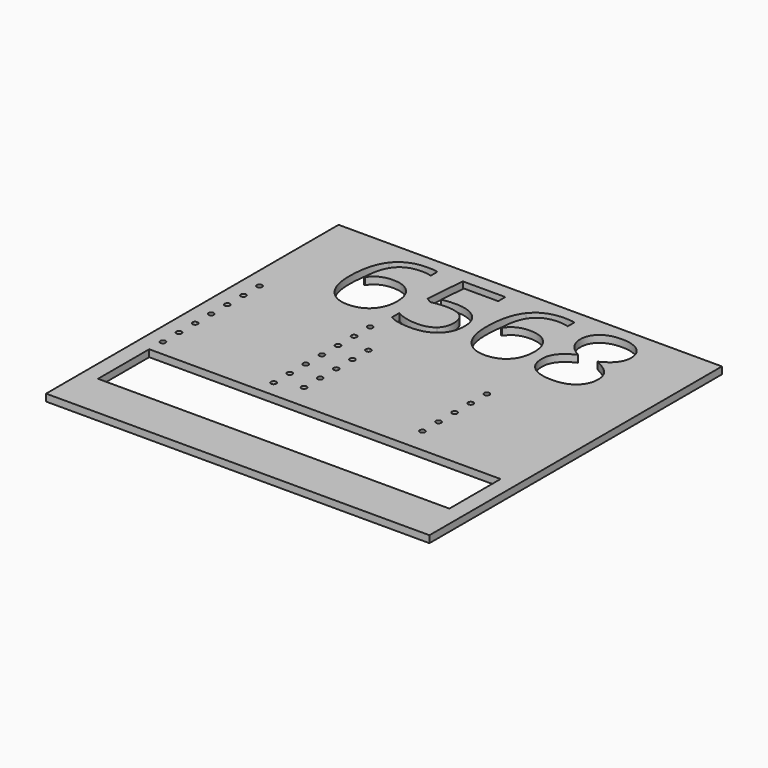
from build123d import *

# Parameters (mm, degrees)
F0_W     = 304.8
F0_H     = 290.6542338112
F0_R     = 2.0981137291
F0_R_2   = 2.0989264552
F0_R_3   = 2.0976936779
F0_R_4   = 2.1
F0_W_2   = 279.3690043101
F0_H_2   = 50.8995426
F0_R_5   = 2.0997492789
F0_R_6   = 2.1030218178
F0_R_7   = 2.1007431661
F0_R_8   = 2.1100198715
F1_DEPTH = 5.588


with BuildPart() as f1:
    # F0 (on Top) → F1 (new body)
    with BuildSketch(Plane.XY):
        with Locations((1.6117691994, 58.7348085056)):
            Rectangle(F0_W, F0_H)
        with Locations((-137.6363656092, 13.0837442843)):
            Circle(F0_R, mode=Mode.SUBTRACT)
        with Locations((-137.6372131602, 29.0818907095)):
            Circle(F0_R_2, mode=Mode.SUBTRACT)
        with Locations((-137.6291652849, 45.0860855355)):
            Circle(F0_R_3, mode=Mode.SUBTRACT)
        with Locations((-49.6327695587, 13.0835205343)):
            Circle(F0_R_4, mode=Mode.SUBTRACT)
        with Locations((-30.9468981291, 19.9726814427)):
            Circle(F0_R_4, mode=Mode.SUBTRACT)
        with Locations((-49.6327695587, 29.0835205343)):
            Circle(F0_R_4, mode=Mode.SUBTRACT)
        with Locations((-49.6327695587, 45.0835205343)):
            Circle(F0_R_4, mode=Mode.SUBTRACT)
        with Locations((-30.9481165686, 35.9726813963)):
            Circle(F0_R_4, mode=Mode.SUBTRACT)
        with Locations((-30.9493350082, 51.97268135)):
            Circle(F0_R_4, mode=Mode.SUBTRACT)
        with Locations((1.6117730443, -25.4497713)):
            Rectangle(F0_W_2, F0_H_2, mode=Mode.SUBTRACT)
        with Locations((63.1926475089, 19.9726814427)):
            Circle(F0_R_4, mode=Mode.SUBTRACT)
        with Locations((63.1914290694, 35.9726813963)):
            Circle(F0_R_4, mode=Mode.SUBTRACT)
        with Locations((63.1902106298, 51.97268135)):
            Circle(F0_R_4, mode=Mode.SUBTRACT)
        with Locations((-137.6294695335, 61.0809336582)):
            Circle(F0_R_5, mode=Mode.SUBTRACT)
        with Locations((-137.6412135418, 77.0719800519)):
            Circle(F0_R_6, mode=Mode.SUBTRACT)
        with Locations((-137.6284801063, 93.0868421709)):
            Circle(F0_R_7, mode=Mode.SUBTRACT)
        with Locations((-137.6289433874, 109.1104278224)):
            Circle(F0_R_8, mode=Mode.SUBTRACT)
        with Locations((-49.6327695587, 61.0835205343)):
            Circle(F0_R_4, mode=Mode.SUBTRACT)
        with Locations((-49.6327695587, 77.0840155506)):
            Circle(F0_R_4, mode=Mode.SUBTRACT)
        with Locations((-49.6327695587, 93.0840155506)):
            Circle(F0_R_4, mode=Mode.SUBTRACT)
        with Locations((-30.9505534477, 67.9726813036)):
            Circle(F0_R_4, mode=Mode.SUBTRACT)
        with Locations((-30.9517718873, 83.9726812572)):
            Circle(F0_R_4, mode=Mode.SUBTRACT)
        with Locations((-49.6327695587, 109.0840155506)):
            Circle(F0_R_4, mode=Mode.SUBTRACT)
        with BuildLine():
            add(Edge.make_bspline(
                [(-96.2710947967, 131.8972389054), (-102.4549033904, 139.8297779679), (-102.4549033904, 153.9684498429)],
                knots=[0, 0, 0, 1, 1, 1], degree=2))
            add(Edge.make_bspline(
                [(-102.4549033904, 153.9684498429), (-102.4549033904, 174.0155982804), (-94.6637510467, 183.9424342179)],
                knots=[0, 0, 0, 1, 1, 1], degree=2))
            add(Edge.make_bspline(
                [(-94.6637510467, 183.9424342179), (-86.8725987029, 193.8692701554), (-71.6177158904, 193.8692701554)],
                knots=[0, 0, 0, 1, 1, 1], degree=2))
            add(Edge.make_bspline(
                [(-71.6177158904, 193.8692701554), (-66.3640830779, 193.8692701554), (-63.3428721404, 192.9911842179)],
                knots=[0, 0, 0, 1, 1, 1], degree=2))
            Line((-63.3428721404, 192.9911842179), (-63.3428721404, 186.3385670304))
            add(Edge.make_bspline(
                [(-63.3428721404, 186.3385670304), (-66.9296299529, 187.4994264054), (-71.5284190154, 187.4994264054)],
                knots=[0, 0, 0, 1, 1, 1], degree=2))
            add(Edge.make_bspline(
                [(-71.5284190154, 187.4994264054), (-82.4672862029, 187.4994264054), (-88.2343760467, 180.6905396867)],
                knots=[0, 0, 0, 1, 1, 1], degree=2))
            add(Edge.make_bspline(
                [(-88.2343760467, 180.6905396867), (-94.0014658904, 173.8816529679), (-94.5521299529, 159.2667310929)],
                knots=[0, 0, 0, 1, 1, 1], degree=2))
            Line((-94.5521299529, 159.2667310929), (-94.0014658904, 159.2667310929))
            add(Edge.make_bspline(
                [(-94.0014658904, 159.2667310929), (-88.8817783904, 167.2736842179), (-77.8089658904, 167.2736842179)],
                knots=[0, 0, 0, 1, 1, 1], degree=2))
            add(Edge.make_bspline(
                [(-77.8089658904, 167.2736842179), (-68.6411533904, 167.2736842179), (-63.3651963592, 161.7372779679)],
                knots=[0, 0, 0, 1, 1, 1], degree=2))
            add(Edge.make_bspline(
                [(-63.3651963592, 161.7372779679), (-58.0892393279, 156.2008717179), (-58.0892393279, 146.7205201554)],
                knots=[0, 0, 0, 1, 1, 1], degree=2))
            add(Edge.make_bspline(
                [(-58.0892393279, 146.7205201554), (-58.0892393279, 136.1090748429), (-63.8786533904, 130.0368873429)],
                knots=[0, 0, 0, 1, 1, 1], degree=2))
            add(Edge.make_bspline(
                [(-63.8786533904, 130.0368873429), (-69.6680674529, 123.9646998429), (-79.5353721404, 123.9646998429)],
                knots=[0, 0, 0, 1, 1, 1], degree=2))
            add(Edge.make_bspline(
                [(-79.5353721404, 123.9646998429), (-90.0872862029, 123.9646998429), (-96.2710947967, 131.8972389054)],
                knots=[0, 0, 0, 1, 1, 1], degree=2))
        make_face(mode=Mode.SUBTRACT)
        with BuildLine():
            add(Edge.make_bspline(
                [(-38.1909190154, 165.3686842179), (-32.8479893279, 166.4402467179), (-27.5348252654, 166.4402467179)],
                knots=[0, 0, 0, 1, 1, 1], degree=2))
            add(Edge.make_bspline(
                [(-27.5348252654, 166.4402467179), (-16.7894346404, 166.4402467179), (-10.6279502654, 161.1121998429)],
                knots=[0, 0, 0, 1, 1, 1], degree=2))
            add(Edge.make_bspline(
                [(-10.6279502654, 161.1121998429), (-4.4664658904, 155.7841529679), (-4.4664658904, 146.5270435929)],
                knots=[0, 0, 0, 1, 1, 1], degree=2))
            add(Edge.make_bspline(
                [(-4.4664658904, 146.5270435929), (-4.4664658904, 135.9751295304), (-11.1860557342, 129.9699146867)],
                knots=[0, 0, 0, 1, 1, 1], degree=2))
            add(Edge.make_bspline(
                [(-11.1860557342, 129.9699146867), (-17.9056455779, 123.9646998429), (-29.7225987029, 123.9646998429)],
                knots=[0, 0, 0, 1, 1, 1], degree=2))
            add(Edge.make_bspline(
                [(-29.7225987029, 123.9646998429), (-41.2121299529, 123.9646998429), (-47.2545518279, 127.6407545304)],
                knots=[0, 0, 0, 1, 1, 1], degree=2))
            Line((-47.2545518279, 127.6407545304), (-47.2545518279, 135.0821607804))
            add(Edge.make_bspline(
                [(-47.2545518279, 135.0821607804), (-44.0100987029, 132.9985670304), (-39.1731846404, 131.8079420304)],
                knots=[0, 0, 0, 1, 1, 1], degree=2))
            add(Edge.make_bspline(
                [(-39.1731846404, 131.8079420304), (-34.3362705779, 130.6173170304), (-29.6333018279, 130.6173170304)],
                knots=[0, 0, 0, 1, 1, 1], degree=2))
            add(Edge.make_bspline(
                [(-29.6333018279, 130.6173170304), (-21.4477549529, 130.6173170304), (-16.9159385467, 134.4794068742)],
                knots=[0, 0, 0, 1, 1, 1], degree=2))
            add(Edge.make_bspline(
                [(-16.9159385467, 134.4794068742), (-12.3841221404, 138.3414967179), (-12.3841221404, 145.6489576554)],
                knots=[0, 0, 0, 1, 1, 1], degree=2))
            add(Edge.make_bspline(
                [(-12.3841221404, 145.6489576554), (-12.3841221404, 159.8769264054), (-29.8118955779, 159.8769264054)],
                knots=[0, 0, 0, 1, 1, 1], degree=2))
            add(Edge.make_bspline(
                [(-29.8118955779, 159.8769264054), (-34.2320908904, 159.8769264054), (-41.6288487029, 158.5225904679)],
                knots=[0, 0, 0, 1, 1, 1], degree=2))
            Line((-41.6288487029, 158.5225904679), (-45.6323252654, 161.0824342179))
            Line((-45.6323252654, 161.0824342179), (-43.0724815154, 192.9018873429))
            Line((-43.0724815154, 192.9018873429), (-9.2587315154, 192.9018873429))
            Line((-9.2587315154, 192.9018873429), (-9.2587315154, 185.7879029679))
            Line((-9.2587315154, 185.7879029679), (-36.4645127654, 185.7879029679))
            Line((-36.4645127654, 185.7879029679), (-38.1909190154, 165.3686842179))
        make_face(mode=Mode.SUBTRACT)
        with Locations((63.1889921903, 67.9726813036)):
            Circle(F0_R_4, mode=Mode.SUBTRACT)
        with Locations((63.1877737507, 83.9726812572)):
            Circle(F0_R_4, mode=Mode.SUBTRACT)
        with BuildLine():
            add(Edge.make_bspline(
                [(12.6413270783, 131.8972389054), (6.4575184846, 139.8297779679), (6.4575184846, 153.9684498429)],
                knots=[0, 0, 0, 1, 1, 1], degree=2))
            add(Edge.make_bspline(
                [(6.4575184846, 153.9684498429), (6.4575184846, 174.0155982804), (14.2486708283, 183.9424342179)],
                knots=[0, 0, 0, 1, 1, 1], degree=2))
            add(Edge.make_bspline(
                [(14.2486708283, 183.9424342179), (22.0398231721, 193.8692701554), (37.2947059846, 193.8692701554)],
                knots=[0, 0, 0, 1, 1, 1], degree=2))
            add(Edge.make_bspline(
                [(37.2947059846, 193.8692701554), (42.5483387971, 193.8692701554), (45.5695497346, 192.9911842179)],
                knots=[0, 0, 0, 1, 1, 1], degree=2))
            Line((45.5695497346, 192.9911842179), (45.5695497346, 186.3385670304))
            add(Edge.make_bspline(
                [(45.5695497346, 186.3385670304), (41.9827919221, 187.4994264054), (37.3840028596, 187.4994264054)],
                knots=[0, 0, 0, 1, 1, 1], degree=2))
            add(Edge.make_bspline(
                [(37.3840028596, 187.4994264054), (26.4451356721, 187.4994264054), (20.6780458283, 180.6905396867)],
                knots=[0, 0, 0, 1, 1, 1], degree=2))
            add(Edge.make_bspline(
                [(20.6780458283, 180.6905396867), (14.9109559846, 173.8816529679), (14.3602919221, 159.2667310929)],
                knots=[0, 0, 0, 1, 1, 1], degree=2))
            Line((14.3602919221, 159.2667310929), (14.9109559846, 159.2667310929))
            add(Edge.make_bspline(
                [(14.9109559846, 159.2667310929), (20.0306434846, 167.2736842179), (31.1034559846, 167.2736842179)],
                knots=[0, 0, 0, 1, 1, 1], degree=2))
            add(Edge.make_bspline(
                [(31.1034559846, 167.2736842179), (40.2712684846, 167.2736842179), (45.5472255158, 161.7372779679)],
                knots=[0, 0, 0, 1, 1, 1], degree=2))
            add(Edge.make_bspline(
                [(45.5472255158, 161.7372779679), (50.8231825471, 156.2008717179), (50.8231825471, 146.7205201554)],
                knots=[0, 0, 0, 1, 1, 1], degree=2))
            add(Edge.make_bspline(
                [(50.8231825471, 146.7205201554), (50.8231825471, 136.1090748429), (45.0337684846, 130.0368873429)],
                knots=[0, 0, 0, 1, 1, 1], degree=2))
            add(Edge.make_bspline(
                [(45.0337684846, 130.0368873429), (39.2443544221, 123.9646998429), (29.3770497346, 123.9646998429)],
                knots=[0, 0, 0, 1, 1, 1], degree=2))
            add(Edge.make_bspline(
                [(29.3770497346, 123.9646998429), (18.8251356721, 123.9646998429), (12.6413270783, 131.8972389054)],
                knots=[0, 0, 0, 1, 1, 1], degree=2))
        make_face(mode=Mode.SUBTRACT)
        with BuildLine():
            add(Edge.make_bspline(
                [(67.9979481721, 189.4788404679), (73.4599403596, 193.8692701554), (82.6277528596, 193.8692701554)],
                knots=[0, 0, 0, 1, 1, 1], degree=2))
            add(Edge.make_bspline(
                [(82.6277528596, 193.8692701554), (91.9295106721, 193.8692701554), (97.3691786408, 189.5458131242)],
                knots=[0, 0, 0, 1, 1, 1], degree=2))
            add(Edge.make_bspline(
                [(97.3691786408, 189.5458131242), (102.8088466096, 185.2223560929), (102.8088466096, 177.6023560929)],
                knots=[0, 0, 0, 1, 1, 1], degree=2))
            add(Edge.make_bspline(
                [(102.8088466096, 177.6023560929), (102.8088466096, 172.5719654679), (99.6983387971, 168.4345435929)],
                knots=[0, 0, 0, 1, 1, 1], degree=2))
            add(Edge.make_bspline(
                [(99.6983387971, 168.4345435929), (96.5878309846, 164.2971217179), (89.7417372346, 160.9038404679)],
                knots=[0, 0, 0, 1, 1, 1], degree=2))
            add(Edge.make_bspline(
                [(89.7417372346, 160.9038404679), (98.0165809846, 156.9450123429), (101.5066005158, 152.5992310929)],
                knots=[0, 0, 0, 1, 1, 1], degree=2))
            add(Edge.make_bspline(
                [(101.5066005158, 152.5992310929), (104.9966200471, 148.2534498429), (104.9966200471, 142.5235670304)],
                knots=[0, 0, 0, 1, 1, 1], degree=2))
            add(Edge.make_bspline(
                [(104.9966200471, 142.5235670304), (104.9966200471, 134.0701295304), (99.0881434846, 129.0174146867)],
                knots=[0, 0, 0, 1, 1, 1], degree=2))
            add(Edge.make_bspline(
                [(99.0881434846, 129.0174146867), (93.1796669221, 123.9646998429), (82.9105262971, 123.9646998429)],
                knots=[0, 0, 0, 1, 1, 1], degree=2))
            add(Edge.make_bspline(
                [(82.9105262971, 123.9646998429), (72.0311903596, 123.9646998429), (66.1673622346, 128.7346412492)],
                knots=[0, 0, 0, 1, 1, 1], degree=2))
            add(Edge.make_bspline(
                [(66.1673622346, 128.7346412492), (60.3035341096, 133.5045826554), (60.3035341096, 142.2556764054)],
                knots=[0, 0, 0, 1, 1, 1], degree=2))
            add(Edge.make_bspline(
                [(60.3035341096, 142.2556764054), (60.3035341096, 153.9238014054), (74.5315028596, 160.4424732804)],
                knots=[0, 0, 0, 1, 1, 1], degree=2))
            add(Edge.make_bspline(
                [(74.5315028596, 160.4424732804), (68.1170106721, 164.0589967179), (65.3264833283, 168.2708326554)],
                knots=[0, 0, 0, 1, 1, 1], degree=2))
            add(Edge.make_bspline(
                [(65.3264833283, 168.2708326554), (62.5359559846, 172.4826685929), (62.5359559846, 177.6916529679)],
                knots=[0, 0, 0, 1, 1, 1], degree=2))
            add(Edge.make_bspline(
                [(62.5359559846, 177.6916529679), (62.5359559846, 185.0884107804), (67.9979481721, 189.4788404679)],
                knots=[0, 0, 0, 1, 1, 1], degree=2))
        make_face(mode=Mode.SUBTRACT)
    extrude(amount=F1_DEPTH)


solid = f1.part
